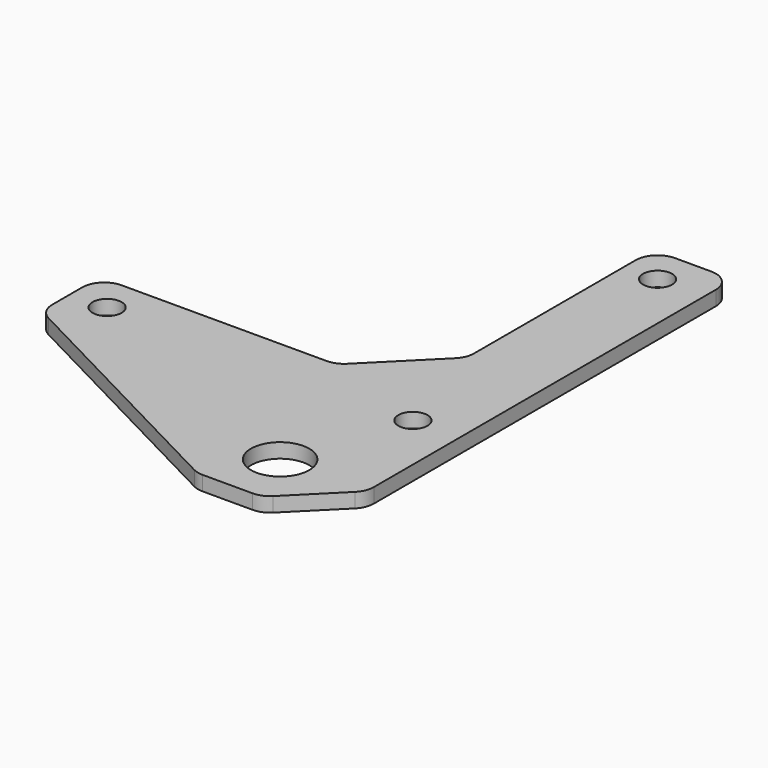
from build123d import *

# Parameters (mm, degrees)
F0_R     = 1
F0_R_2   = 2
F1_DEPTH = 1
F2_R     = 1
F3_DEPTH = 1
F4_SIZE  = 4
F5_SIZE  = 5
F6_R     = 1.5


with BuildPart() as f1:
    # F0 (on Top) → F1 (new body)
    with BuildSketch(Plane.XY):
        with BuildLine():
            Line((-6.25, 2.5), (-6.25, 0))
            ThreePointArc((-6.25, 0), (0, -6.25), (6.25, 0))
            Line((6.25, 0), (6.25, 2.5))
            Line((6.25, 2.5), (-6.25, 2.5))
        make_face()
        with BuildLine():
            ThreePointArc((6.25, 0), (0, -6.25), (-6.25, 0))
            Line((-6.25, 0), (-6.25, 2.5))
            Line((-6.25, 2.5), (-13, 2.5))
            Line((-13, 2.5), (-13, -4.25))
            Line((-13, -4.25), (-10.5, -4.25))
            ThreePointArc((-10.5, -4.25), (-4.25, -10.5), (-10.5, -16.75))
            Line((-10.5, -16.75), (-13, -16.75))
            Line((-13, -16.75), (-13, -32.9777747887))
            Line((-13, -32.9777747887), (13.7, -32.9777747887))
            Line((13.7, -32.9777747887), (13.7, 2.5))
            Line((13.7, 2.5), (6.25, 2.5))
            Line((6.25, 2.5), (6.25, 0))
        make_face()
        with Locations((-10.5, -21)):
            Circle(F0_R, mode=Mode.SUBTRACT)
        with Locations((7.7645713531, -28.9777747887)):
            Circle(F0_R_2, mode=Mode.SUBTRACT)
        with Locations((10.5, -21)):
            Circle(F0_R, mode=Mode.SUBTRACT)
        with Locations((-10.5, 0)):
            Circle(F0_R, mode=Mode.SUBTRACT)
        with Locations((10.5, 0)):
            Circle(F0_R, mode=Mode.SUBTRACT)
    extrude(amount=F1_DEPTH)

    # F2 (on face) → F3 (cut, through all)
    with BuildSketch(Plane.XY.offset(1)):
        Polygon((5.2645713531, -32.9777747887), (-13, -23.5), (-13, -32.9777747887), align=None)
        with BuildLine():
            Line((-13, -16.75), (-13, -18.5))
            Line((-13, -18.5), (8.2, -18.5))
            Line((8.2, -18.5), (8.2, 2.5))
            Line((8.2, 2.5), (-13, 2.5))
            Line((-13, 2.5), (-13, -4.25))
            Line((-13, -4.25), (-10.5, -4.25))
            ThreePointArc((-10.5, -4.25), (-4.25, -10.5), (-10.5, -16.75))
            Line((-10.5, -16.75), (-13, -16.75))
        make_face()
        with Locations((-10.5, 0)):
            Circle(F2_R, mode=Mode.SUBTRACT)
    extrude(amount=-F3_DEPTH, mode=Mode.SUBTRACT)

    # F4
    f4_edges = [f1.edges().sort_by_distance(p)[0] for p in [
        (13.7, -32.977775, 0.5),
    ]]
    chamfer(f4_edges, length=F4_SIZE)

    # F5
    f5_edges = [f1.edges().sort_by_distance(p)[0] for p in [
        (8.2, -18.5, 0.5),
    ]]
    chamfer(f5_edges, length=F5_SIZE)

    # F6
    f6_edges = [f1.edges().sort_by_distance(p)[0] for p in [
        (-13, -23.5, 0.5),
        (5.264571, -32.977775, 0.5),
        (9.7, -32.977775, 0.5),
        (13.7, -28.977775, 0.5),
        (8.2, -13.5, 0.5),
        (3.2, -18.5, 0.5),
        (-13, -18.5, 0.5),
        (13.7, 2.5, 0.5),
        (8.2, 2.5, 0.5),
    ]]
    fillet(f6_edges, radius=F6_R)


solid = f1.part
